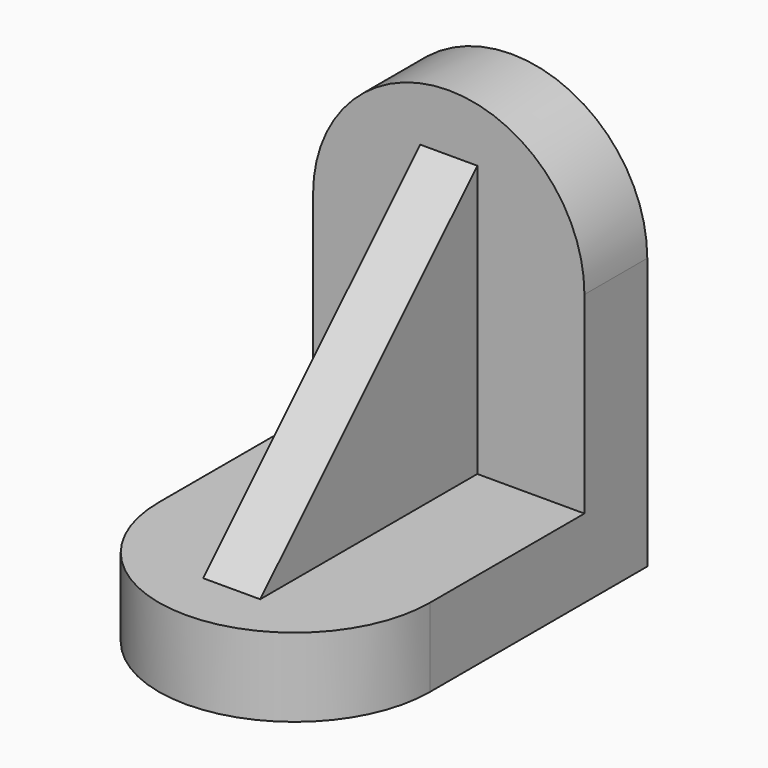
from build123d import *

# Parameters (mm, degrees)
F1_DEPTH = 11
F3_DEPTH = 11
F5_DEPTH = 4


with BuildPart() as f1:
    # F0 (on Front) → F1 (new body)
    with BuildSketch(Plane.XZ):
        with BuildLine():
            Line((-19, 38), (-19, 0))
            Line((-19, 0), (19, 0))
            Line((19, 0), (19, 38))
            ThreePointArc((19, 38), (0, 57), (-19, 38))
        make_face()
    extrude(amount=F1_DEPTH)

    # F2 (on Top) → F3 (join)
    with BuildSketch(Plane.XY):
        with BuildLine():
            Line((19, 0), (-19, 0))
            Line((-19, 0), (-19, -38))
            ThreePointArc((-19, -38), (0, -57), (19, -38))
            Line((19, -38), (19, 0))
        make_face()
    extrude(amount=F3_DEPTH)

    # F4 (on Right) → F5 (join)
    with BuildSketch(Plane.YZ):
        Polygon((-11, 49), (-49, 11), (-11, 9.028562), align=None)
    extrude(amount=F5_DEPTH)

    # F6: F1 across plane


with BuildPart() as f1_1:
    add(f1.part)
    add(f1.part.mirror(Plane.YZ))


solid = f1_1.part
